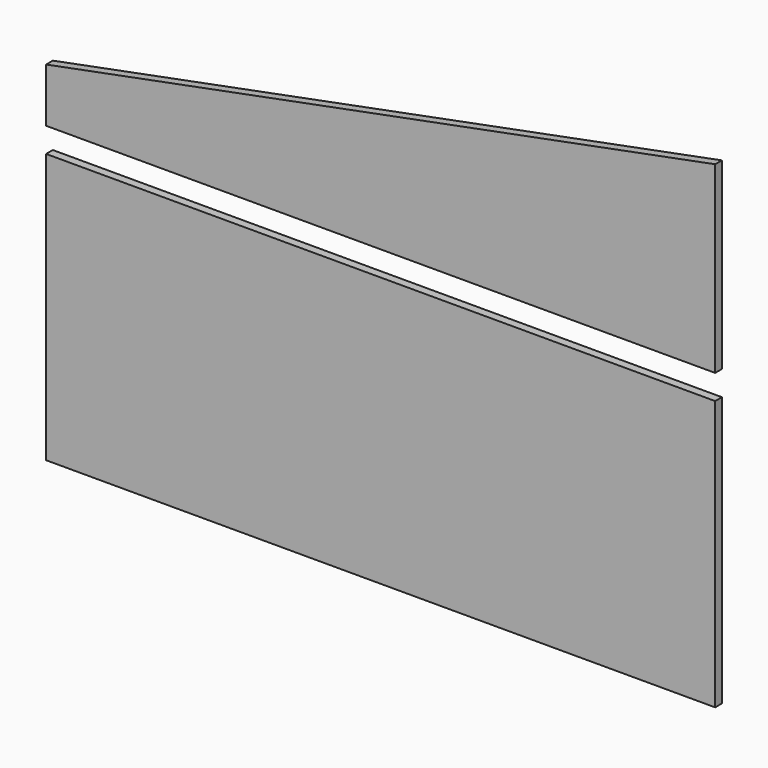
from build123d import *

# Parameters (mm, degrees)
F0_W     = 1985
F0_H     = 800
F1_DEPTH = 25


with BuildPart() as f1:
    # F0 (on Front) → F1 (new body)
    with BuildSketch(Plane.XZ):
        Polygon((1985, 385), (0, 0), (0, -160), (1985, -160), align=None)
        with Locations((992.5, -633.48636)):
            Rectangle(F0_W, F0_H)
    extrude(amount=F1_DEPTH)


solid = f1.part
